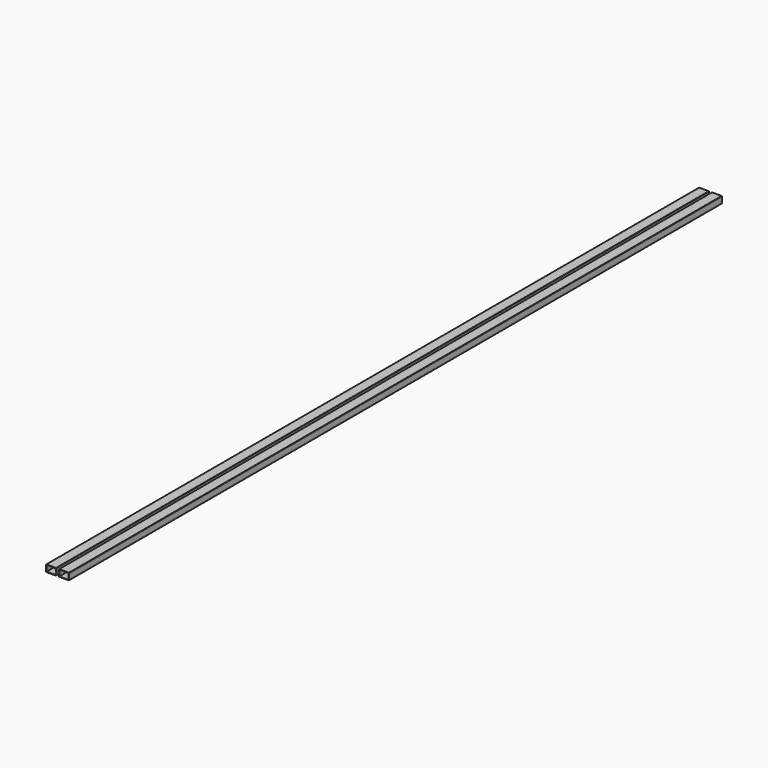
from build123d import *

# Parameters (mm, degrees)
F0_W     = 139.700003
F0_H     = 88.900003
F0_W_2   = 139.699996
F0_H_2   = 88.899996
F1_DEPTH = 12192


with BuildPart() as f1:
    # F0 (on Front) → F1 (new body)
    with BuildSketch(Plane.XZ):
        with BuildLine():
            Line((-146.05, 0), (-6.35, 0))
            ThreePointArc((-6.35, 0), (-1.859872, 1.859872), (0, 6.35))
            Line((0, 6.35), (0, 95.25))
            ThreePointArc((0, 95.25), (-1.859872, 99.740128), (-6.35, 101.6))
            Line((-6.35, 101.6), (-146.05, 101.6))
            ThreePointArc((-146.05, 101.6), (-150.540128, 99.740128), (-152.4, 95.25))
            Line((-152.4, 95.25), (-152.4, 6.35))
            ThreePointArc((-152.4, 6.35), (-150.540128, 1.859872), (-146.05, 0))
        make_face()
        with Locations((-76.200001, 50.800001)):
            Rectangle(F0_W, F0_H, mode=Mode.SUBTRACT)
        with BuildLine():
            ThreePointArc((40.017502, 6.35), (41.877374, 1.859872), (46.367502, 0))
            Line((46.367502, 0), (186.067502, 0))
            ThreePointArc((186.067502, 0), (190.55763, 1.859872), (192.417502, 6.35))
            Line((192.417502, 6.35), (192.417502, 95.25))
            ThreePointArc((192.417502, 95.25), (190.55763, 99.740128), (186.067502, 101.6))
            Line((186.067502, 101.6), (46.367502, 101.6))
            ThreePointArc((46.367502, 101.6), (41.877374, 99.740128), (40.017502, 95.25))
            Line((40.017502, 95.25), (40.017502, 6.35))
        make_face()
        with Locations((116.217502, 50.8)):
            Rectangle(F0_W_2, F0_H_2, mode=Mode.SUBTRACT)
    extrude(amount=F1_DEPTH)


solid = f1.part
